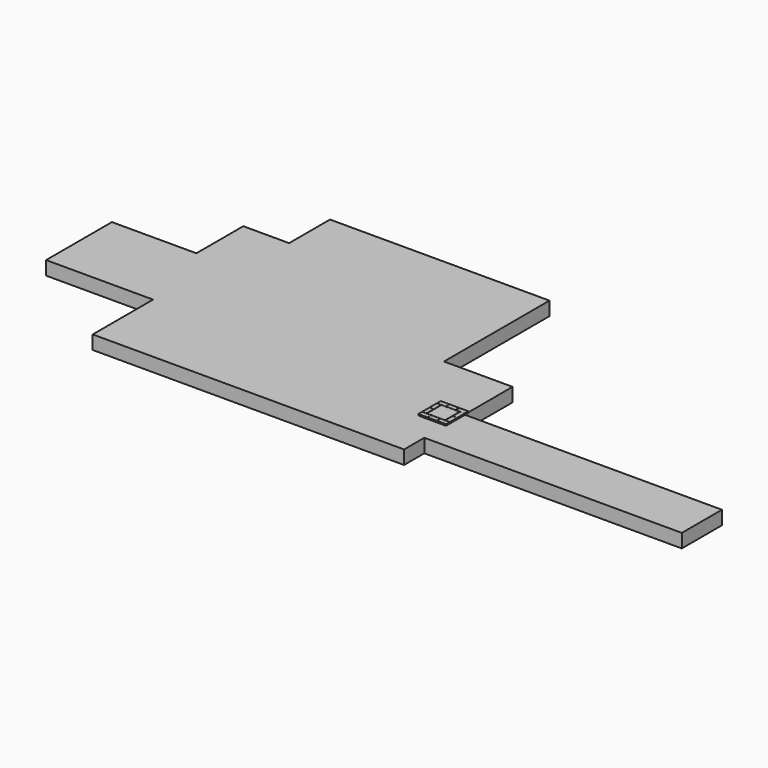
from build123d import *

# Parameters (mm, degrees)
F0_W     = 1524
F0_H     = 1337.124705
F0_W_2   = 5722.299576
F0_H_2   = 1114.441872
F1_DEPTH = 304.8
F2_W     = 528.32
F2_H     = 528.32
F3_DEPTH = 30.48
F4_W     = 406.4
F4_H     = 406.4
F5_DEPTH = 30.48
F6_W     = 203.2
F6_H     = 101.6
F6_W_2   = 101.6
F6_H_2   = 203.2
F6_W_3   = 197.104
F6_W_4   = 95.504
F6_H_3   = 200.152
F7_DEPTH = 30.48


with BuildPart() as f1:
    # F0 (on Top) → F1 (new body)
    with BuildSketch(Plane.XY):
        Polygon((-9296.4, 0), (-6918.96, 0), (-1524, 0), (-1524, 1337.124705), (-1524, 4267.2), (-6400.8, 4267.2), (-6400.8, 3131.770648), (-7419.447352, 3131.770648), (-7419.447352, 1828.8), (-9296.4, 1828.8), align=None)
        Polygon((-1524, 0), (-6918.96, 0), (-6918.96, -1676.4), (0, -1676.4), (0, -1114.441872), (0, 0), align=None)
        with Locations((-762, 668.562352)):
            Rectangle(F0_W, F0_H)
        with Locations((2861.149788, -557.220936)):
            Rectangle(F0_W_2, F0_H_2)
    extrude(amount=-F1_DEPTH)


with BuildPart() as f3:
    # F2 (on Top) → F3 (new body)
    with BuildSketch(Plane.XY):
        with Locations((-264.16, -264.16)):
            Rectangle(F2_W, F2_H)
    extrude(amount=F3_DEPTH)

    # F4 (on face) → F5 (join)
    with BuildSketch(Plane.XY.offset(30.48)):
        with Locations((-261.112, -261.112)):
            Rectangle(F4_W, F4_H)
    extrude(amount=F5_DEPTH)


with BuildPart() as f7:
    # F6 (on face) → F7 (new body)
    with BuildSketch(Plane.XY.offset(30.48)):
        with Locations((-51.816, -521.208)):
            Rectangle(F6_W, F6_H)
        with Locations((-258.064, -521.208)):
            Rectangle(F6_W, F6_H)
        with Locations((-1.016, -362.712)):
            Rectangle(F6_W_2, F6_H_2)
        with Locations((-1.016, -156.464)):
            Rectangle(F6_W_2, F6_H_2)
        with Locations((-464.312, -521.208)):
            Rectangle(F6_W, F6_H)
        with Locations((-48.768, -1.016)):
            Rectangle(F6_W_3, F6_H)
        with Locations((-258.064, -1.016)):
            Rectangle(F6_W, F6_H)
        with Locations((-518.16, -362.712)):
            Rectangle(F6_W_4, F6_H_2)
        with Locations((-518.16, -157.988)):
            Rectangle(F6_W_4, F6_H_3)
        with Locations((-464.312, -1.016)):
            Rectangle(F6_W, F6_H)
    extrude(amount=F7_DEPTH)


solid = Compound([f1.part, f3.part, f7.part])
